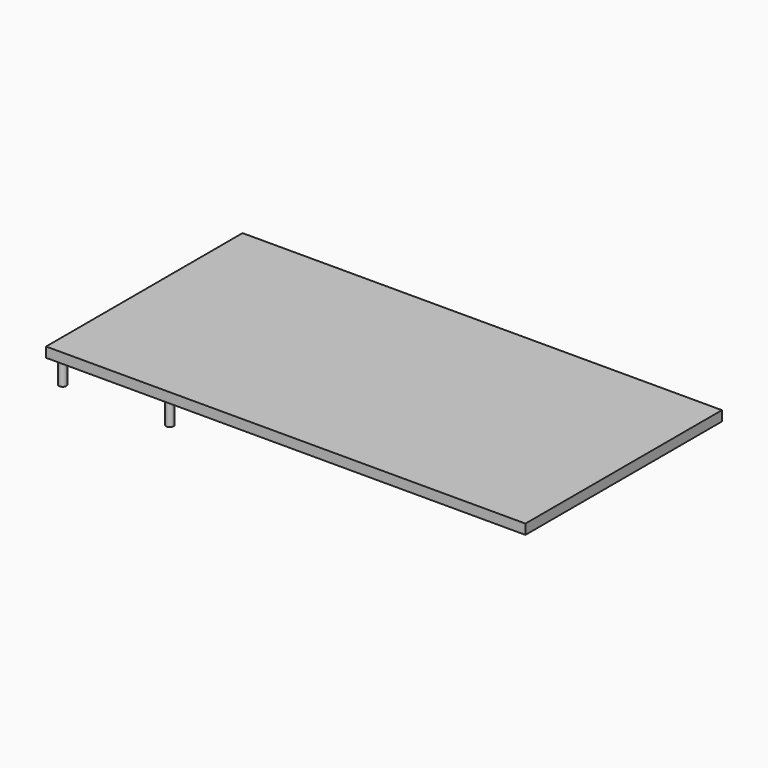
from build123d import *

# Parameters (mm, degrees)
F0_W     = 1024.064392
F0_H     = 524.694004
F1_DEPTH = 21.336
F2_R     = 7.883837
F3_DEPTH = 50.8
F4_R     = 7.571869
F5_DEPTH = 50.8
F6_R     = 7.368514
F7_DEPTH = 50.8
F8_R     = 8.112976
F9_DEPTH = 50.8


with BuildPart() as f1:
    # F0 (on Top) → F1 (new body)
    with BuildSketch(Plane.XY):
        with Locations((373.085335, 229.552608)):
            Rectangle(F0_W, F0_H)
    extrude(amount=-F1_DEPTH)

    # F2 (on face) → F3 (join)
    with BuildSketch(Plane(origin=(0, 0, -21.336), x_dir=(1, 0, 0), z_dir=(0, 0, -1))):
        with Locations((-117.818758, 14.959664)):
            Circle(F2_R)
    extrude(amount=F3_DEPTH)

    # F4 (on face) → F5 (join)
    with BuildSketch(Plane(origin=(0, 0, -21.336), x_dir=(1, 0, 0), z_dir=(0, 0, -1))):
        with Locations((-120.250419, -105.692685)):
            Circle(F4_R)
    extrude(amount=F5_DEPTH)

    # F6 (on face) → F7 (join)
    with BuildSketch(Plane(origin=(0, 0, -21.336), x_dir=(1, 0, 0), z_dir=(0, 0, -1))):
        with Locations((111.060277, -108.45048)):
            Circle(F6_R)
    extrude(amount=F7_DEPTH)

    # F8 (on face) → F9 (join)
    with BuildSketch(Plane(origin=(0, 0, -21.336), x_dir=(1, 0, 0), z_dir=(0, 0, -1))):
        with Locations((112.673059, 16.722616)):
            Circle(F8_R)
    extrude(amount=F9_DEPTH)


solid = f1.part
